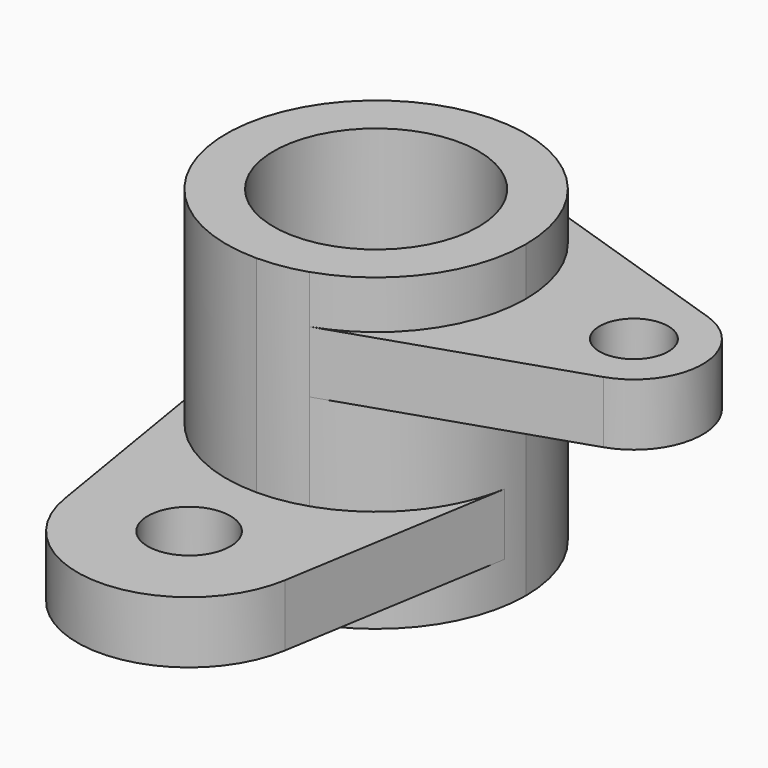
from build123d import *

# Parameters (mm, degrees)
F0_R     = 29.793604
F1_DEPTH = 90
F0_R_2   = 10
F2_DEPTH = 18
F4_R     = 12
F5_DEPTH = 18


with BuildPart() as f1:
    # F0 (on Top) → F1 (new body)
    with BuildSketch(Plane.XY):
        with BuildLine():
            ThreePointArc((13.688006, -41.358628), (35.314401, -25.510601), (43.564867, 0))
            ThreePointArc((43.564867, 0), (35.3144, 25.510601), (13.688004, 41.358629))
            ThreePointArc((13.688004, 41.358629), (-43.009771, 6.932333), (0, -43.564867))
            ThreePointArc((0, -43.564867), (6.932334, -43.009771), (13.688006, -41.358628))
        make_face()
        Circle(F0_R, mode=Mode.SUBTRACT)
    extrude(amount=F1_DEPTH)


with BuildPart() as f2:
    # F0 (on Top) → F2 (new body)
    with BuildSketch(Plane.XY):
        with BuildLine():
            ThreePointArc((13.688004, 41.358629), (35.3144, 25.510601), (43.564867, 0))
            ThreePointArc((43.564867, 0), (35.314401, -25.510601), (13.688006, -41.358628))
            Line((13.688006, -41.358628), (81.283965, -18.987148))
            ThreePointArc((81.283965, -18.987148), (95, 0), (81.283965, 18.987148))
            Line((81.283965, 18.987148), (13.688004, 41.358629))
        make_face()
        with Locations((75, 0)):
            Circle(F0_R_2, mode=Mode.SUBTRACT)
    extrude(amount=F2_DEPTH)


with BuildPart() as f2_1:
    # F3: moved
    add(f2.part.moved(Location((0, 0, 58))))


with BuildPart() as f5:
    # F4 (on Top) → F5 (new body)
    with BuildSketch(Plane.XY):
        with BuildLine():
            Line((-42.984257, -7.088816), (-32.066857, -73.288356))
            ThreePointArc((-32.066857, -73.288356), (0, -100.5), (32.066857, -73.288356))
            Line((32.066857, -73.288356), (42.984257, -7.088815))
            ThreePointArc((42.984257, -7.088815), (0, -43.564867), (-42.984257, -7.088816))
        make_face()
        with Locations((0, -68)):
            Circle(F4_R, mode=Mode.SUBTRACT)
    extrude(amount=F5_DEPTH)


with BuildPart() as f5_1:
    # F6: moved
    add(f5.part.moved(Location((0, 0, 12))))


solid = Compound([f1.part, f2_1.part, f5_1.part])
